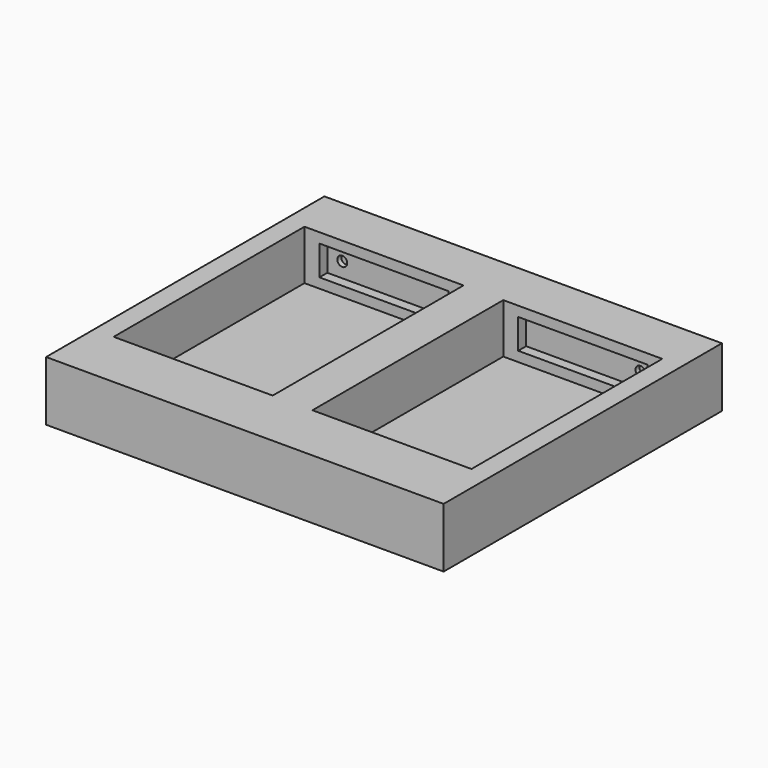
from build123d import *

# Parameters (mm, degrees)
F0_W          = 40
F0_H          = 35
F1_DEPTH      = 6
F2_W          = 16
F2_H          = 24
F3_DEPTH      = 5
F4_W          = 13
F4_H          = 3
F5_DEPTH      = 1
F5_DEPTH_BACK = 2
F6_R          = 0.5
F7_DEPTH      = 0.5
F8_W          = 13
F8_H          = 3
F9_DEPTH      = 1
F9_DEPTH_BACK = 1
F10_R         = 0.5
F10_R_2       = 0.4192188994
F11_DEPTH     = 0.5


with BuildPart() as f1:
    # F0 (on Top) → F1 (new body)
    with BuildSketch(Plane.XY):
        with Locations((-20, 17.5)):
            Rectangle(F0_W, F0_H)
    extrude(amount=F1_DEPTH)

    # F2 (on face) → F3 (cut)
    with BuildSketch(Plane.XY.offset(6)):
        with Locations((-30, 18)):
            Rectangle(F2_W, F2_H)
        with Locations((-10, 18)):
            Rectangle(F2_W, F2_H)
    extrude(amount=-F3_DEPTH, mode=Mode.SUBTRACT)

    # F4 (on face) → F5 (cut, two sides)
    with BuildSketch(Plane.XZ.offset(-30)) as f5_sk:
        with Locations((-30, 3.5)):
            Rectangle(F4_W, F4_H)
        with Locations((-10, 3.5)):
            Rectangle(F4_W, F4_H)
    extrude(amount=-F5_DEPTH, mode=Mode.SUBTRACT)
    extrude(f5_sk.sketch, amount=F5_DEPTH_BACK, mode=Mode.SUBTRACT)

    # F6 (on face) → F7 (cut)
    with BuildSketch(Plane.XZ.offset(-31)):
        with Locations((-35, 3.5)):
            Circle(F6_R)
        with Locations((-5, 3.5)):
            Circle(F6_R)
    extrude(amount=-F7_DEPTH, mode=Mode.SUBTRACT)

    # F8 (on face) → F9 (cut, two sides)
    with BuildSketch(Plane(origin=(0, 6, 0), x_dir=(-1, 0, 0), z_dir=(0, 1, 0))) as f9_sk:
        with Locations((10, 3.5)):
            Rectangle(F8_W, F8_H)
        with Locations((30, 3.5)):
            Rectangle(F8_W, F8_H)
    extrude(amount=-F9_DEPTH, mode=Mode.SUBTRACT)
    extrude(f9_sk.sketch, amount=F9_DEPTH_BACK, mode=Mode.SUBTRACT)

    # F10 (on face) → F11 (cut)
    with BuildSketch(Plane(origin=(0, 5, 0), x_dir=(-1, 0, 0), z_dir=(0, 1, 0))):
        with Locations((5.5, 3.5)):
            Circle(F10_R)
        with Locations((34.5807811006, 3.4192188994)):
            Circle(F10_R_2)
    extrude(amount=-F11_DEPTH, mode=Mode.SUBTRACT)


solid = f1.part
